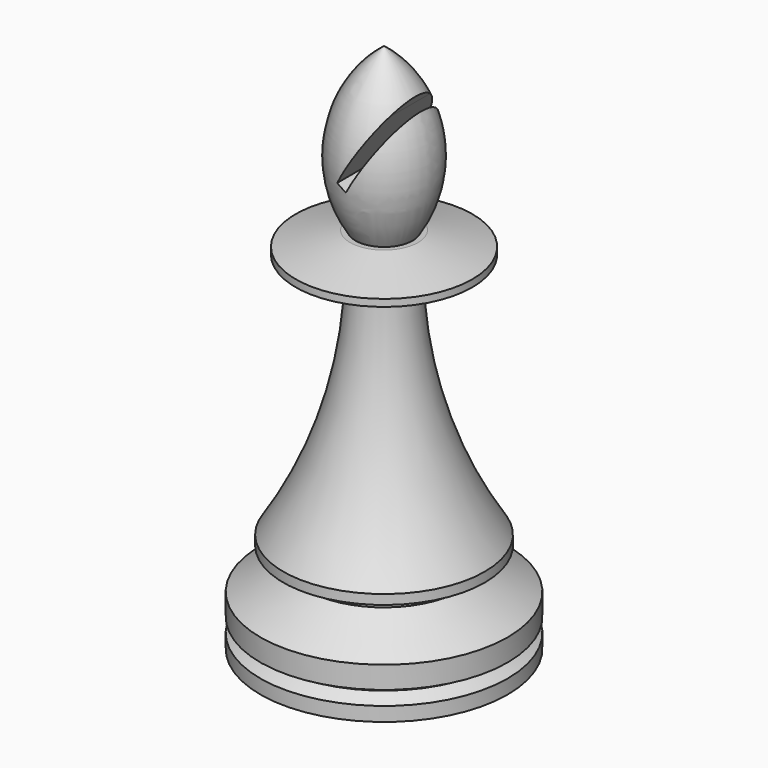
from build123d import *

# Parameters (mm, degrees)
F3_DEPTH = 25


with BuildPart() as f1:
    # F0 (on Front) → F1 (revolve)
    with BuildSketch(Plane.XZ):
        with BuildLine():
            Line((0, 14.3967514385), (0, 0))
            Line((0, 0), (17.5, 0))
            Line((17.5, 0), (17.5, 2))
            Line((17.5, 2), (15.7679491924, 3))
            Line((15.7679491924, 3), (17.5, 4))
            Line((17.5, 4), (17.5, 7.1339745962))
            Line((17.5, 7.1339745962), (11, 10.8867513459))
            Line((11, 10.8867513459), (11, 11.8867513459))
            Line((11, 11.8867513459), (14.25, 12.8894521404))
            Line((14.25, 12.8894521404), (14.25, 14.2489565356))
            ThreePointArc((14.25, 14.2489565356), (6.9707527463, 29.9652823734), (4.3572546539, 47.0871971654))
            Line((4.3572546539, 47.0871971654), (4.9170198591, 47.0764651614))
            Line((4.9170198591, 47.0764651614), (12.5, 49.1083185663))
            Line((12.5, 49.1083185663), (12.5, 50.1083185663))
            Line((12.5, 50.1083185663), (4.8029537407, 52.1707358956))
            Line((4.8029537407, 52.1707358956), (4.0456421405, 52.1707358956))
            ThreePointArc((4.0456421405, 52.1707358956), (6.5713601159, 64.4360195335), (0, 75.0959285498))
            Line((0, 75.0959285498), (0, 52.1707358956))
            Line((0, 52.1707358956), (0, 47.1707358956))
            Line((0, 47.1707358956), (0, 14.3967514385))
        make_face()
    revolve(axis=Axis((0, 0, 7.1983757192), (0, 0, -1)))

    # F2 (on Front) → F3 (cut, symmetric)
    with BuildSketch(Plane.XZ):
        Polygon((0, 59.5794219913), (7.7786666002, 73.0524677579), (6.5578971387, 73.9380330262), (3.6545886706, 68.9093552496), (-1.2990381057, 60.3294219913), align=None)
    extrude(amount=F3_DEPTH, both=True, mode=Mode.SUBTRACT)


solid = f1.part
